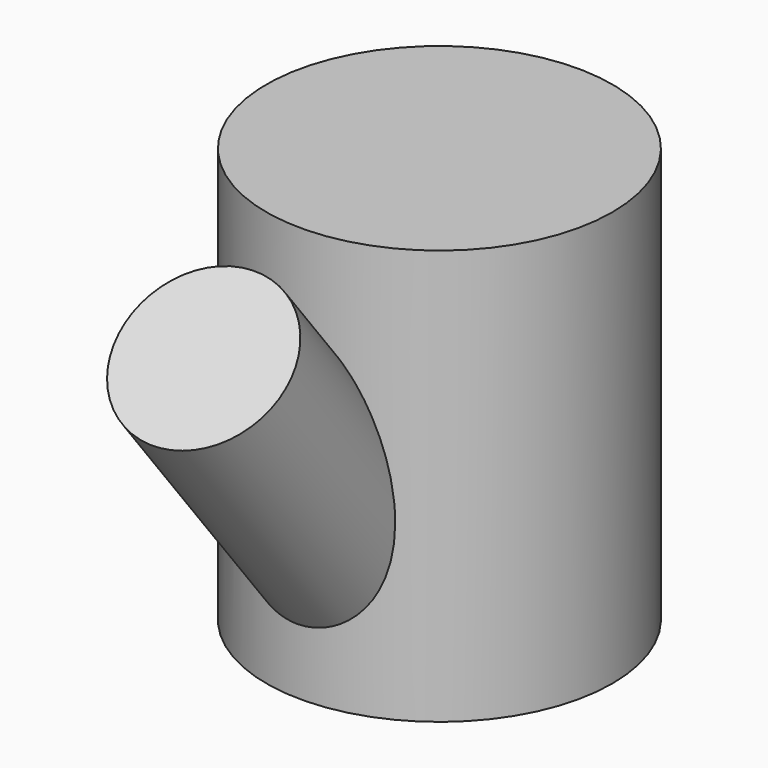
from build123d import *

# Parameters (mm, degrees)
F0_R     = 31.4548391854
F1_DEPTH = 75.438
F5_R     = 14.8652429267
F6_DEPTH = 29.718


with BuildPart() as f1:
    # F0 (on Top) → F1 (new body)
    with BuildSketch(Plane.XY):
        with Locations((-33.1230200827, 24.7644875199)):
            Circle(F0_R)
    extrude(amount=F1_DEPTH)

    # F5 (on 3pt) → F6 (join, symmetric)
    with BuildSketch(Plane(origin=(0.1525542398, -23.1789328381, 29.3425820121), x_dir=(0.999991678, 0.0025288861, -0.0032013573), z_dir=(-0.0040797002, 0.619865409, -0.784697541))):
        with Locations((-33.7410271168, -16.973875463)):
            Circle(F5_R)
    extrude(amount=F6_DEPTH, both=True)


solid = f1.part
